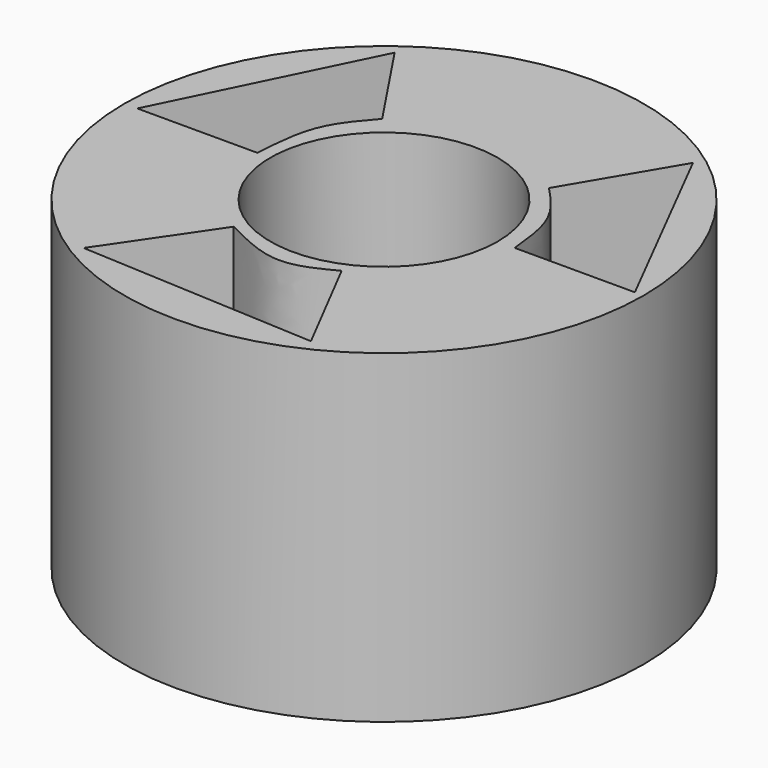
from build123d import *

# Parameters (mm, degrees)
F0_R     = 4
F1_DEPTH = 2.5
F2_R     = 1.75
F3_DEPTH = 11.3
F6_DEPTH = 8.5


with BuildPart() as f1:
    # F0 (on Top) → F1 (new body, symmetric)
    with BuildSketch(Plane.XY):
        Circle(F0_R)
    extrude(amount=F1_DEPTH, both=True)

    # F2 (on face) → F3 (cut)
    with BuildSketch(Plane.XY.offset(2.5)):
        Circle(F2_R)
    extrude(amount=-F3_DEPTH, mode=Mode.SUBTRACT)

    # F5 (on face) → F6 (cut)
    with BuildSketch(Plane.XY.offset(2.5)):
        with BuildLine():
            add(Edge.make_bspline(
                [(2.0119966939, 0), (1.9826024943, 0.2954333995), (1.924894753, 0.8754387886), (1.5462774399, 1.2772605749), (1.360513852, 1.4744091313)],
                knots=[0, 0, 0, 0, 0.5093631973, 1, 1, 1, 1], degree=3))
            Line((2.0119966939, 0), (3.8635805249, 0))
            Line((3.8635805249, 0), (2.3034499027, 3.0688282568))
            Line((2.3034499027, 3.0688282568), (1.360513852, 1.4744091313))
        make_face()
        with BuildLine():
            Line((-3.7999181077, 0), (-2.1026332397, 0))
            Line((-2.1026332397, 0), (-1.9483346259, 0))
            add(Edge.make_bspline(
                [(-1.3311400544, 1.6287077451), (-1.5110569531, 1.4224997977), (-1.8877122283, 0.9908043222), (-1.9275343397, 0.3399570839), (-1.9483346259, 0)],
                knots=[0, 0, 0, 0, 0.4776699295, 1, 1, 1, 1], degree=3))
            Line((-1.3311400544, 1.6287077451), (-2.2912204731, 3.0688282568))
            Line((-2.2912204731, 3.0688282568), (-3.7999181077, 0))
        make_face()
        with BuildLine():
            Line((-0.9711100138, -1.6801406164), (-2.0340562332, -3.2402712386))
            Line((-2.0340562332, -3.2402712386), (1.6176782083, -3.428858472))
            Line((1.6176782083, -3.428858472), (0.7604635903, -1.7658622237))
            add(Edge.make_bspline(
                [(-0.9711100138, -1.6801406164), (-0.637698637, -1.848903582), (-0.0099582222, -2.1666471906), (0.514541214, -1.8937947275), (0.7604635903, -1.7658622237)],
                knots=[0, 0, 0, 0, 0.5311293792, 1, 1, 1, 1], degree=3))
        make_face()
    extrude(amount=-F6_DEPTH, mode=Mode.SUBTRACT)


solid = f1.part
